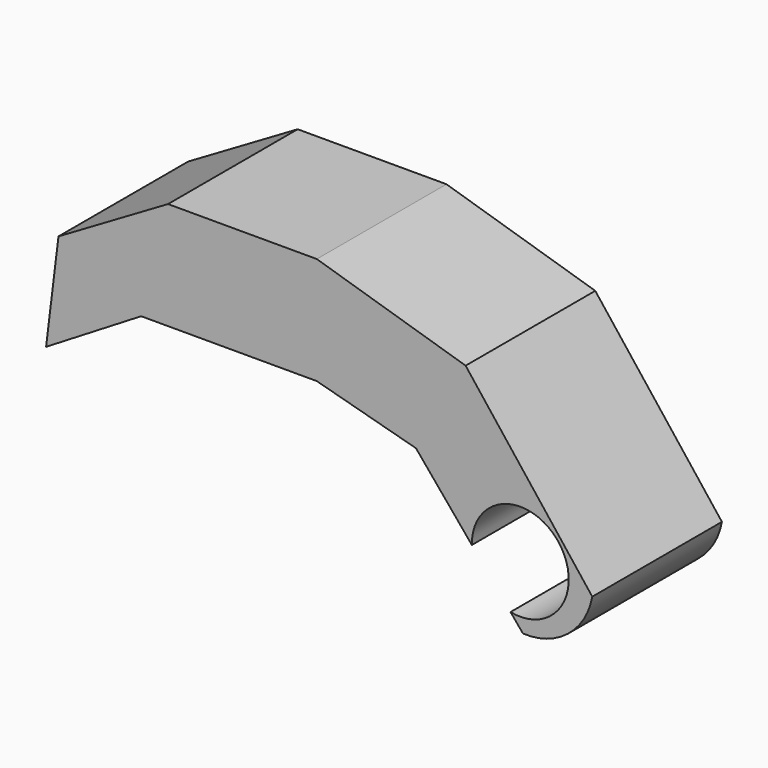
from build123d import *

# Parameters (mm, degrees)
F1_DEPTH = 12.7
F3_D     = 7.5946
F5_DEPTH = 25.4


with BuildPart() as f1:
    # F0 (on Front) → F1 (new body)
    with BuildSketch(Plane.XZ):
        Polygon((-13.766902, 0), (0, 0), (0, 8.422106), (-11.661377, 8.422106), (-20.245446, 3.401235), (-21.217227, -4.53498), align=None)
        Polygon((0, 8.422106), (0, 0), (7.774252, -2.105526), (20.731336, -17.654028), (23.386621, -10.155125), (11.661377, 4.858907), align=None)
    extrude(amount=F1_DEPTH)

    # F3 (through all)
    with Locations(Plane.XZ.offset(12.7)):
        with Locations((15.946049, -7.273637)):
            Hole(F3_D / 2)

    # F4 (on face) → F5 (cut)
    with BuildSketch(Plane.XZ.offset(12.7)):
        with BuildLine():
            ThreePointArc((21.587126, -7.850894), (19.681214, -11.027735), (16.154281, -12.161563))
            Line((16.154281, -12.161563), (20.731336, -17.654028))
            Line((20.731336, -17.654028), (23.386621, -10.155125))
            Line((23.386621, -10.155125), (21.587126, -7.850894))
        make_face()
    extrude(amount=-F5_DEPTH, mode=Mode.SUBTRACT)


solid = f1.part
